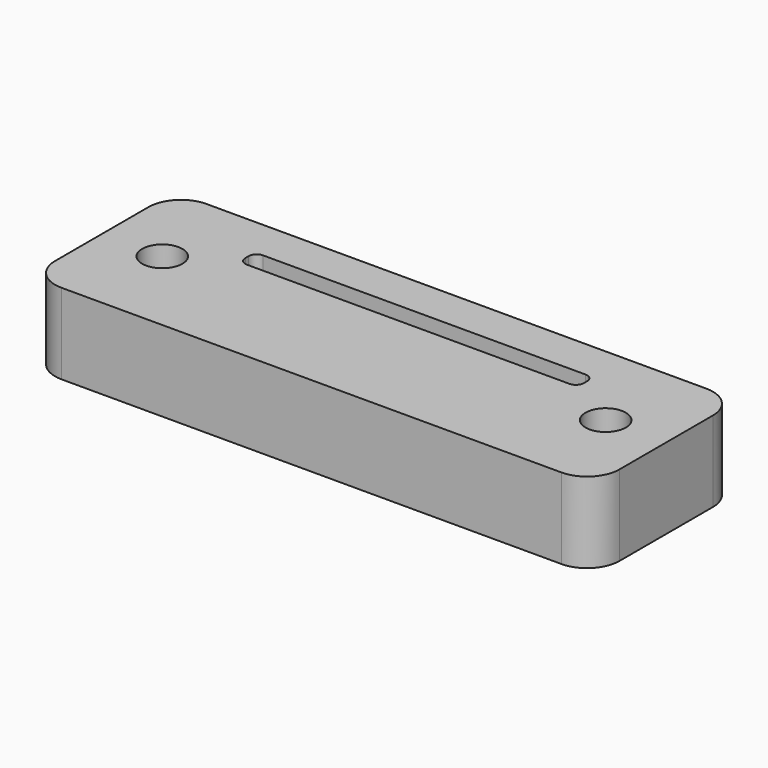
from build123d import *

# Parameters (mm, degrees)
F0_W     = 88.9
F0_H     = 28.575
F1_DEPTH = 12.7
F3_DEPTH = 6.35
F4_R     = 5.08
F6_DEPTH = 6.35
F7_R     = 3.175
F8_DEPTH = 25.4


with BuildPart() as f1:
    # F0 (on Top) → F1 (new body)
    with BuildSketch(Plane.XY):
        Rectangle(F0_W, F0_H)
    extrude(amount=F1_DEPTH)

    # F2 (on face) → F3 (cut)
    with BuildSketch(Plane.XY.offset(12.7)):
        with BuildLine():
            Line((25.4, 7.9375), (-25.4, 7.9375))
            ThreePointArc((-25.4, 7.9375), (-26.298026, 7.565526), (-26.67, 6.6675))
            Line((-26.67, 6.6675), (-26.67, 6.0325))
            ThreePointArc((-26.67, 6.0325), (-26.298026, 5.134474), (-25.4, 4.7625))
            Line((-25.4, 4.7625), (25.4, 4.7625))
            ThreePointArc((25.4, 4.7625), (26.298026, 5.134474), (26.67, 6.0325))
            Line((26.67, 6.0325), (26.67, 6.6675))
            ThreePointArc((26.67, 6.6675), (26.298026, 7.565526), (25.4, 7.9375))
        make_face()
    extrude(amount=-F3_DEPTH, mode=Mode.SUBTRACT)

    # F4
    f4_edges = [f1.edges().sort_by_distance(p)[0] for p in [
        (44.45, -14.2875, 6.35),
        (44.45, 14.2875, 6.35),
        (-44.45, -14.2875, 6.35),
        (-44.45, 14.2875, 6.35),
    ]]
    fillet(f4_edges, radius=F4_R)

    # F5 (on face) → F6 (cut)
    with BuildSketch(Plane(origin=(0, 0, 0), x_dir=(1, 0, 0), z_dir=(0, 0, -1))):
        with BuildLine():
            Line((16.002, 7.9375), (-16.002, 7.9375))
            ThreePointArc((-16.002, 7.9375), (-18.157261, 7.044761), (-19.05, 4.8895))
            Line((-19.05, 4.8895), (-19.05, 4.6355))
            ThreePointArc((-19.05, 4.6355), (-18.157261, 2.480239), (-16.002, 1.5875))
            Line((-16.002, 1.5875), (16.002, 1.5875))
            ThreePointArc((16.002, 1.5875), (18.157261, 2.480239), (19.05, 4.6355))
            Line((19.05, 4.6355), (19.05, 4.8895))
            ThreePointArc((19.05, 4.8895), (18.157261, 7.044761), (16.002, 7.9375))
        make_face()
    extrude(amount=-F6_DEPTH, mode=Mode.SUBTRACT)

    # F7 (on face) → F8 (cut)
    with BuildSketch(Plane.XY.offset(12.7)):
        with Locations((-34.925, 0)):
            Circle(F7_R)
        with Locations((34.925, 0)):
            Circle(F7_R)
    extrude(amount=-F8_DEPTH, mode=Mode.SUBTRACT)


solid = f1.part
